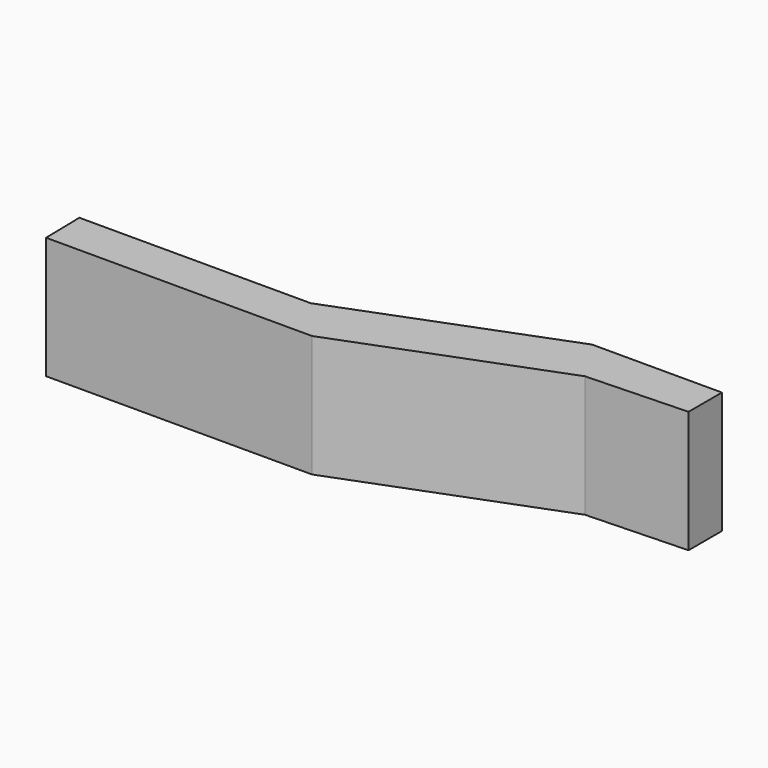
from build123d import *

# Parameters (mm, degrees)
F1_DEPTH = 100


with BuildPart() as f1:
    # F0 (on Top) → F1 (new body)
    with BuildSketch(Plane.XY):
        Polygon((-67.530616, 12.081598), (-257.424236, 12.081598), (-256.679559, -22.918402), (-38.488059, -22.918402), (132.788533, 42.613512), (108.95874, 79.84755), align=None)
        Polygon((215.448105, 79.84755), (108.95874, 79.84755), (132.788533, 42.613512), (215.448105, 45.592243), align=None)
    extrude(amount=-F1_DEPTH)


solid = f1.part
